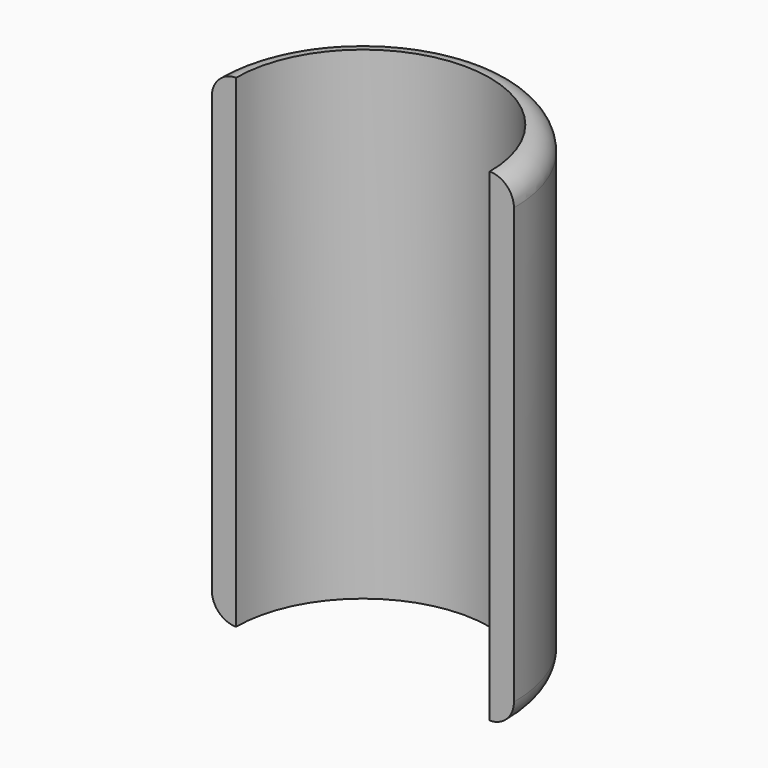
from build123d import *

# Parameters (mm, degrees)
F1_ANGLE = 180
F3_DEPTH = 40


with BuildPart() as f1:
    # F0 (on Front) → F1 (revolve)
    with BuildSketch(Plane.XZ):
        with BuildLine():
            Line((6.25, 20), (-4.25, 20))
            ThreePointArc((-4.25, 20), (-5.664214, 19.414214), (-6.25, 18))
            Line((-6.25, 18), (-6.25, -18))
            ThreePointArc((-6.25, -18), (-5.664214, -19.414214), (-4.25, -20))
            Line((-4.25, -20), (6.25, -20))
            Line((6.25, -20), (6.25, 20))
        make_face()
    revolve(axis=Axis((6.25, 0, 0), (0, 0, -1)), revolution_arc=F1_ANGLE)

    # F2 (on face) → F3 (cut)
    with BuildSketch(Plane.XY.offset(20)):
        with BuildLine():
            Line((-4.25, 0), (16.75, 0))
            ThreePointArc((16.75, 0), (6.25, 10.5), (-4.25, 0))
        make_face()
        with BuildLine():
            ThreePointArc((-4.25, 0), (6.25, -10.5), (16.75, 0))
            Line((16.75, 0), (-4.25, 0))
        make_face()
    extrude(amount=-F3_DEPTH, mode=Mode.SUBTRACT)


solid = f1.part
